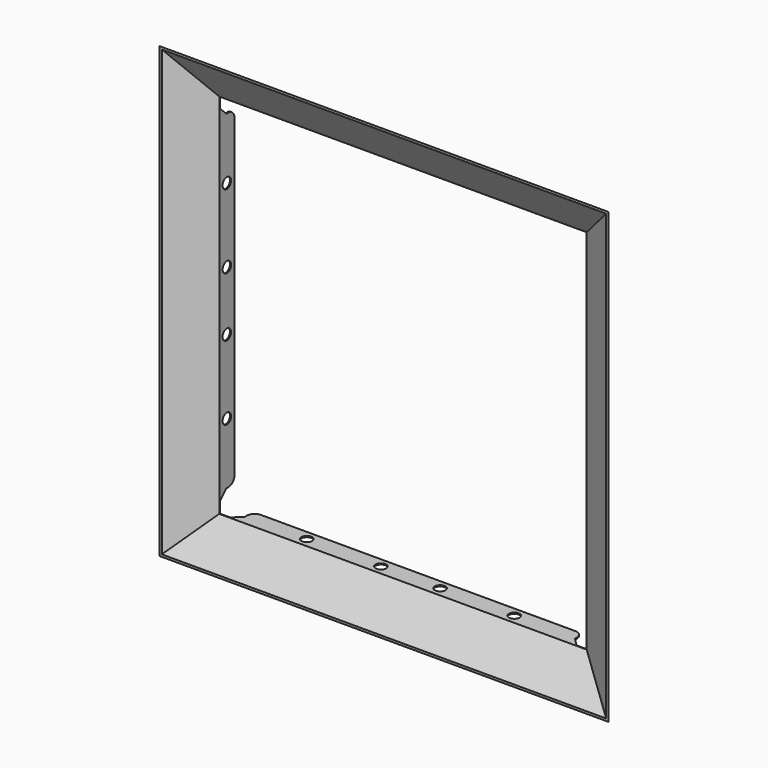
from build123d import *

# Parameters (mm, degrees)
F0_W      = 375
F0_H      = 375
F2_W      = 310
F2_H      = 310
F5_W      = 310
F5_H      = 310
F3_FACE_W = 310
F3_FACE_H = 310
F7_T      = 1
F14_R     = 4.5
F15_DEPTH = 345.4090421903
F16_R     = 4.5
F17_DEPTH = 345.4090421903


with BuildPart() as f3:
    # F0 (on Front) → F3 section 0
    with BuildSketch(Plane.XZ):
        Rectangle(F0_W, F0_H)
    # F2 (on offset) → F3 section 1
    with BuildSketch(Plane.XZ.offset(-20)):
        Rectangle(F2_W, F2_H)
    loft()

    # F5 (on offset) → F6 section 0
    with BuildSketch(Plane.XZ.offset(-36)):
        Rectangle(F5_W, F5_H)
    # F3_face (on face) → F6 section 1
    with BuildSketch(Plane(origin=(0, 20, 0), x_dir=(-1, 0, 0), z_dir=(0, 1, 0))):
        Rectangle(F3_FACE_W, F3_FACE_H)
    loft()

    # F7
    f7_openings = [f3.faces().sort_by_distance(p)[0] for p in [
        (0, 0, 0),
        (0, 36, 0),
    ]]
    offset(amount=F7_T, openings=f7_openings, kind=Kind.INTERSECTION)

    # F8 (on face) → F9 (revolve, cut)
    with BuildSketch(Plane(origin=(-156, 0, 0), x_dir=(0, -1, 0), z_dir=(-1, 0, 0))):
        with BuildLine():
            Line((-20.558795194, 146), (-20.558795194, 156))
            Line((-20.558795194, 156), (-36, 156))
            Line((-36, 156), (-36, 133.4152411143))
            ThreePointArc((-36, 133.4152411143), (-33.0658481949, 138.0710584905), (-27.6298630059, 138.9289321881))
            Line((-27.6298630059, 138.9289321881), (-20.558795194, 146))
        make_face()
    revolve(axis=Axis((-156, 28.279397597, 156), (0, 1, 0)), mode=Mode.SUBTRACT)

    # F8 (on face) → F10 (revolve, cut)
    with BuildSketch(Plane(origin=(-156, 0, 0), x_dir=(0, -1, 0), z_dir=(-1, 0, 0))):
        with BuildLine():
            Line((-36, -156), (-20.558795194, -156))
            Line((-20.558795194, -156), (-20.558795194, -146))
            Line((-20.558795194, -146), (-27.6298630059, -138.9289321881))
            ThreePointArc((-27.6298630059, -138.9289321881), (-33.0658481949, -138.0710584905), (-36, -133.4152411143))
            Line((-36, -133.4152411143), (-36, -156))
        make_face()
    revolve(axis=Axis((-156, 28.279397597, -156), (0, 1, 0)), mode=Mode.SUBTRACT)

    # F11 (on face) → F12 (revolve, cut)
    with BuildSketch(Plane.YZ.offset(156)):
        with BuildLine():
            Line((27.6298630059, -138.9289321881), (20.558795194, -146))
            Line((20.558795194, -146), (20.558795194, -156))
            Line((20.558795194, -156), (36, -156))
            Line((36, -156), (36, -133.4152411143))
            ThreePointArc((36, -133.4152411143), (33.0658481949, -138.0710584905), (27.6298630059, -138.9289321881))
        make_face()
    revolve(axis=Axis((156, 28.279397597, -156), (0, 1, 0)), mode=Mode.SUBTRACT)

    # F11 (on face) → F13 (revolve, cut)
    with BuildSketch(Plane.YZ.offset(156)):
        with BuildLine():
            Line((36, 156), (20.558795194, 156))
            Line((20.558795194, 156), (20.558795194, 146))
            Line((20.558795194, 146), (27.6298630059, 138.9289321881))
            ThreePointArc((27.6298630059, 138.9289321881), (33.0658481949, 138.0710584905), (36, 133.4152411143))
            Line((36, 133.4152411143), (36, 156))
        make_face()
    revolve(axis=Axis((156, 28.279397597, 156), (0, 1, 0)), mode=Mode.SUBTRACT)

    # F14 (on face) → F15 (cut, through all)
    with BuildSketch(Plane(origin=(0, 0, -156), x_dir=(1, 0, 0), z_dir=(0, 0, -1))):
        with Locations((-25, -28)):
            Circle(F14_R)
        with Locations((25, -28)):
            Circle(F14_R)
        with Locations((-87.5, -28)):
            Circle(F14_R)
        with Locations((87.5, -28)):
            Circle(F14_R)
    extrude(amount=-F15_DEPTH, mode=Mode.SUBTRACT)

    # F16 (on face) → F17 (cut, through all)
    with BuildSketch(Plane(origin=(-156, 0, 0), x_dir=(0, -1, 0), z_dir=(-1, 0, 0))):
        with Locations((-28, 25)):
            Circle(F16_R)
        with Locations((-28, 87.5)):
            Circle(F16_R)
        with Locations((-28, -25)):
            Circle(F16_R)
        with Locations((-28, -87.5)):
            Circle(F16_R)
    extrude(amount=-F17_DEPTH, mode=Mode.SUBTRACT)


solid = f3.part
